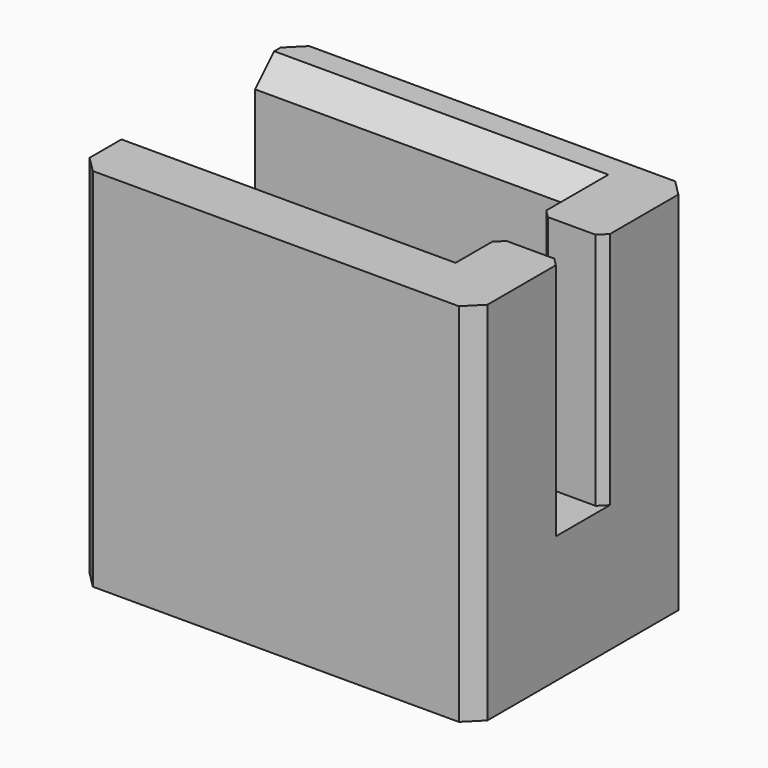
from build123d import *

# Parameters (mm, degrees)
F1_DEPTH = 34
F2_W     = 6.5
F2_H     = 30
F3_DEPTH = 8
F4_R     = 3.5
F5_DEPTH = 6
F6_W     = 42
F6_H     = 10
F6_H_2   = 6
F7_DEPTH = 30
F8_SIZE  = 3
F9_SIZE  = 2
F10_SIZE = 1


with BuildPart() as f1:
    # F0 (on Front) → F1 (new body)
    with BuildSketch(Plane.XZ):
        Polygon((-20, 8), (-25, 8), (-25, -8), (25, -8), (25, 38), (17, 38), (17, 8), align=None)
    extrude(amount=F1_DEPTH)

    # F2 (on face) → F3 (cut, through all)
    with BuildSketch(Plane.YZ.offset(25)):
        with Locations((-17, 23)):
            Rectangle(F2_W, F2_H)
    extrude(amount=-F3_DEPTH, mode=Mode.SUBTRACT)

    # F4 (on face) → F5 (cut)
    with BuildSketch(Plane(origin=(-25, 0, 0), x_dir=(0, -1, 0), z_dir=(-1, 0, 0))):
        with Locations((17, 0)):
            Circle(F4_R)
    extrude(amount=-F5_DEPTH, mode=Mode.SUBTRACT)

    # F6 (on face) → F7 (join, through all)
    with BuildSketch(Plane.XY.offset(8)):
        with Locations((-4, -29)):
            Rectangle(F6_W, F6_H)
        with Locations((-4, -3)):
            Rectangle(F6_W, F6_H_2)
    extrude(amount=F7_DEPTH)

    # F8
    f8_edges = [f1.edges().sort_by_distance(p)[0] for p in [
        (-4, -24, 38),
        (-4, -6, 38),
    ]]
    chamfer(f8_edges, length=F8_SIZE)

    # F9
    f9_edges = [f1.edges().sort_by_distance(p)[0] for p in [
        (25, -34, 15),
        (25, 0, 15),
        (-25, -34, 15),
        (-25, 0, 15),
    ]]
    chamfer(f9_edges, length=F9_SIZE)

    # F10
    f10_edges = [f1.edges().sort_by_distance(p)[0] for p in [
        (17, -13.75, 23),
        (17, -20.25, 23),
        (25, -13.75, 23),
        (25, -20.25, 23),
    ]]
    chamfer(f10_edges, length=F10_SIZE)


solid = f1.part
